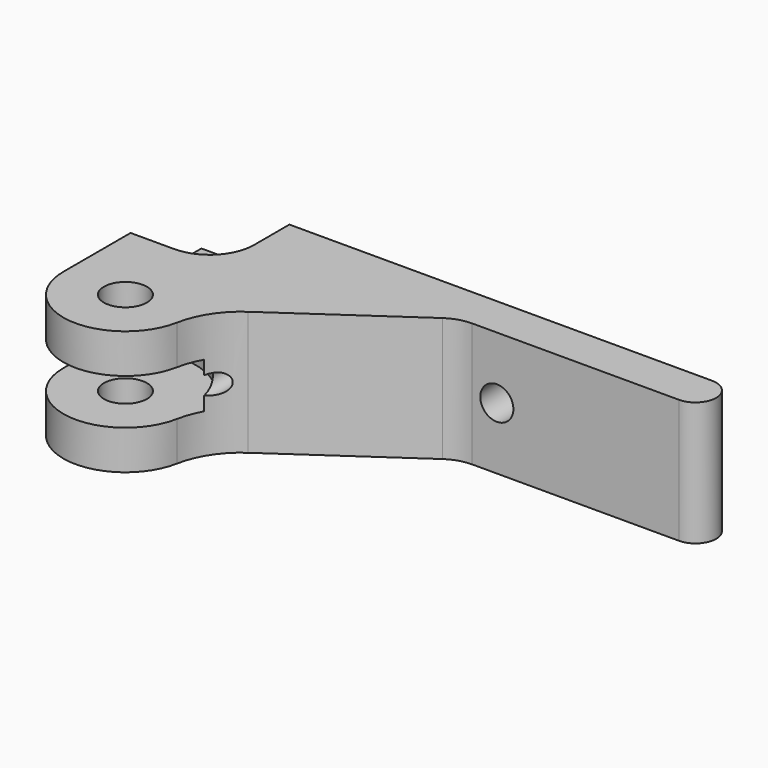
from build123d import *

# Parameters (mm, degrees)
SKETCH009_R        = 8.5
SKETCH009_R_2      = 2.5
PAD012_DEPTH       = 5.5
SKETCH006_R        = 1.7
SKETCH006_R_2      = 2.6
PAD005_DEPTH       = 15
SKETCH024_R        = 1.7
PAD013_DEPTH       = 3
SKETCH014_R        = 2
SKETCH014_R_2      = 1.2
POCKET011002_DEPTH = 28.351
SKETCH017_R        = 2.6
POCKET011003_DEPTH = 4.5
POCKET011004_DEPTH = 6


with BuildPart() as roller_copy:
    # Sketch009 → Pad012 (new body)
    with BuildSketch(Plane(origin=(7.8, 21.15, 52.75), x_dir=(1, 0, 0), z_dir=(0, 0, 1))):
        Circle(SKETCH009_R)
        Circle(SKETCH009_R_2, mode=Mode.SUBTRACT)
    extrude(amount=PAD012_DEPTH)


with BuildPart() as tensioner001:
    # Sketch006 → Pad005 (new body)
    with BuildSketch(Plane.XY.offset(48)):
        with BuildLine():
            ThreePointArc((0.3, 21.15), (7.088015, 13.683871), (15.164821, 19.732461))
            ThreePointArc((19.022004, 25.646185), (16.51278, 23.068036), (15.164821, 19.732461))
            Line((34.156005, 36.112383), (19.022004, 25.646185))
            ThreePointArc((37, 37), (35.510355, 36.77294), (34.156005, 36.112383))
            Line((37, 37), (62, 37))
            ThreePointArc((62, 37), (64.5, 39.5), (62, 42))
            Line((0.3, 42), (62, 42))
            Line((0.3, 21.15), (0.3, 42))
        make_face()
        with Locations((5.65, 36.65)):
            Circle(SKETCH006_R, mode=Mode.SUBTRACT)
        with Locations((7.8, 21.15)):
            Circle(SKETCH006_R_2, mode=Mode.SUBTRACT)
    extrude(amount=PAD005_DEPTH)

    # Sketch024 → Pad013 (new body)
    with BuildSketch(Plane(origin=(0, 0, 48), x_dir=(1, 0, 0), z_dir=(0, 0, -1))):
        with BuildLine():
            Line((0.3, -42), (10.899992, -42))
            Line((10.899992, -42), (10.899992, -36.659185))
            ThreePointArc((10.899992, -36.659185), (9.365563, -32.940945), (5.650018, -31.4))
            Line((5.650018, -31.4), (0.3, -31.4))
            Line((0.3, -31.4), (0.3, -42))
        make_face()
        with Locations((5.65, -36.65)):
            Circle(SKETCH024_R, mode=Mode.SUBTRACT)
    extrude(amount=PAD013_DEPTH)

    # Sketch014 → Pocket011002 (cut, through all)
    with BuildSketch(Plane(origin=(0, 42, 48), x_dir=(-1, 0, 0), z_dir=(0, 1, 0))):
        with Locations((-40, 7.5)):
            Circle(SKETCH014_R)
        with Locations((-16.7, 7.5)):
            Circle(SKETCH014_R_2)
    extrude(amount=-POCKET011002_DEPTH, mode=Mode.SUBTRACT)

    # Sketch017 → Pocket011003 (cut)
    with BuildSketch(Plane(origin=(0, 42, 48), x_dir=(-1, 0, 0), z_dir=(0, 1, 0))):
        with Locations((-16.7, 7.5)):
            Circle(SKETCH017_R)
    extrude(amount=-POCKET011003_DEPTH, mode=Mode.SUBTRACT)

    # Sketch025 → Pocket011004 (cut)
    with BuildSketch(Plane.XY.offset(63)):
        with BuildLine():
            Line((-0.494617, 43), (10.932914, 43))
            Line((10.932914, 36.653394), (10.932914, 43))
            ThreePointArc((5.582914, 31.303394), (9.365935, 32.870373), (10.932914, 36.653394))
            Line((-0.494617, 31.303394), (5.582914, 31.303394))
            Line((-0.494617, 31.303394), (-0.494617, 43))
        make_face()
    extrude(amount=-POCKET011004_DEPTH, mode=Mode.SUBTRACT)

    # Cut: cut roller_copy
    add(roller_copy.part, mode=Mode.SUBTRACT)


solid = tensioner001.part
